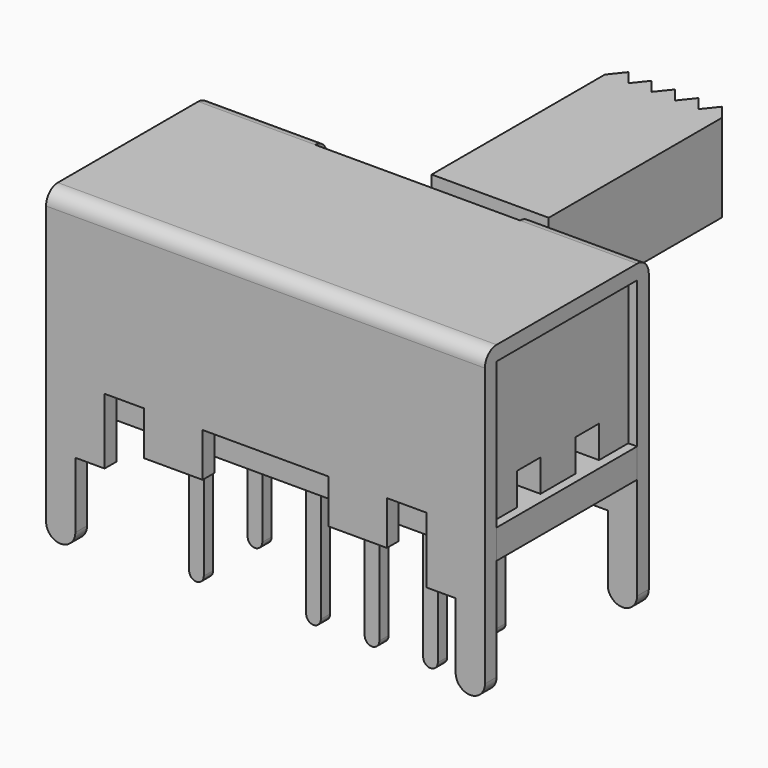
from build123d import *

# Parameters (mm, degrees)
BOX002_W         = 4
BOX002_H         = 10
BOX002_DEPTH     = 10
BOX001_W         = 7
BOX001_H         = 10
BOX001_DEPTH     = 3.5
BOX_W            = 20
BOX_H            = 6
BOX_DEPTH        = 10
EXTRUDE_DEPTH    = 7
FILLET_R         = 0.5
BOX003_W         = 15
BOX003_H         = 6
BOX003_DEPTH     = 1
EXTRUDE002_DEPTH = 0.4
EXTRUDE003_DEPTH = 0.4
EXTRUDE004_DEPTH = 0.4
EXTRUDE005_DEPTH = 0.4
EXTRUDE006_DEPTH = 0.4
EXTRUDE007_DEPTH = 0.4
EXTRUDE008_DEPTH = 0.4
EXTRUDE009_DEPTH = 0.4
BOX007_W         = 15
BOX007_H         = 1
BOX007_DEPTH     = 1.1
BOX006_W         = 15
BOX006_H         = 1
BOX006_DEPTH     = 1.1
BOX005_W         = 4
BOX005_H         = 1
BOX005_DEPTH     = 0.6
EXTRUDE001_DEPTH = 3
BOX004_W         = 10.4
BOX004_H         = 6
BOX004_DEPTH     = 4.9


with BuildPart() as cube002:
    # Box002 → Box002 (new body)
    with BuildSketch(Plane(origin=(-2, 0, -1), x_dir=(1, 0, 0), z_dir=(0, 0, 1))):
        with Locations((2, 5)):
            Rectangle(BOX002_W, BOX002_H)
    extrude(amount=BOX002_DEPTH)


with BuildPart() as fusion:
    # Box001 → Box001 (new body)
    with BuildSketch(Plane(origin=(-3.5, 3, 7), x_dir=(1, 0, 0), z_dir=(0, 0, 1))):
        with Locations((3.5, 5)):
            Rectangle(BOX001_W, BOX001_H)
    extrude(amount=BOX001_DEPTH)

    # Fusion: union Cube002
    add(cube002.part)


with BuildPart() as cube:
    # Box → Box (new body)
    with BuildSketch(Plane(origin=(-10, -3, 0), x_dir=(1, 0, 0), z_dir=(0, 0, 1))):
        with Locations((10, 3)):
            Rectangle(BOX_W, BOX_H)
    extrude(amount=BOX_DEPTH)


with BuildPart() as steelbody:
    # Sketch → Extrude (new body)
    with BuildSketch(Plane.XZ):
        with BuildLine():
            ThreePointArc((0, 0.5), (0.5, 0), (1, 0.5))
            Line((1, 0.5), (1, 2.75))
            Line((2, 2.75), (1, 2.75))
            Line((2, 2.75), (2, 5))
            Line((2, 5), (3.35, 5))
            Line((3.35, 5), (3.35, 3.5))
            Line((3.35, 3.5), (5.35, 3.5))
            Line((5.35, 3.5), (5.35, 5))
            Line((5.35, 5), (9.65, 5))
            Line((9.65, 3.5), (9.65, 5))
            Line((9.65, 3.5), (11.65, 3.5))
            Line((11.65, 5), (11.65, 3.5))
            Line((11.65, 5), (13, 5))
            Line((13, 5), (13, 2.75))
            Line((13, 2.75), (14, 2.75))
            Line((14, 2.75), (14, 0.5))
            ThreePointArc((14, 0.5), (14.5, 0), (15, 0.5))
            Line((15, 10.5), (15, 0.5))
            Line((0, 10.5), (15, 10.5))
            Line((0, 0.5), (0, 10.5))
        make_face()
    extrude(amount=EXTRUDE_DEPTH)


with BuildPart() as steelbody_1:
    # Extrude placement: moved
    add(steelbody.part.moved(Location((-7.5, 3.5, 0))))

    # Cut: cut Cube
    add(cube.part, mode=Mode.SUBTRACT)

    # Fillet
    fillet_edges = [steelbody_1.edges().sort_by_distance(p)[0] for p in [
        (0, 3.5, 10.5),
        (0, -3.5, 10.5),
    ]]
    fillet(fillet_edges, radius=FILLET_R)

    # Cut001: cut Fusion
    add(fusion.part, mode=Mode.SUBTRACT)


with BuildPart() as fiberglassbase:
    # Box003 → Box003 (new body)
    with BuildSketch(Plane(origin=(-7.5, -3, 4), x_dir=(1, 0, 0), z_dir=(0, 0, 1))):
        with Locations((7.5, 3)):
            Rectangle(BOX003_W, BOX003_H)
    extrude(amount=BOX003_DEPTH)


with BuildPart() as steelpin001:
    # Sketch002 → Extrude002 (new body)
    with BuildSketch(Plane.XZ):
        with BuildLine():
            ThreePointArc((-0.25, 0.25), (0, 0), (0.25, 0.25))
            Line((0.25, 0.25), (0.25, 4.25))
            Line((0.4, 4.8), (0.25, 4.25))
            Line((0.4, 4.8), (0.4, 7))
            Line((-0.4, 7), (0.4, 7))
            Line((-0.4, 4.8), (-0.4, 7))
            Line((-0.4, 4.8), (-0.25, 4.25))
            Line((-0.25, 0.25), (-0.25, 4.25))
        make_face()
    extrude(amount=EXTRUDE002_DEPTH)


with BuildPart() as steelpin001_1:
    # Extrude002 placement: moved
    add(steelpin001.part.moved(Location((0, 1.45, -1))))


with BuildPart() as steelpin002:
    # Sketch003 → Extrude003 (new body)
    with BuildSketch(Plane.XZ):
        with BuildLine():
            ThreePointArc((-0.25, 0.25), (0, 0), (0.25, 0.25))
            Line((0.25, 0.25), (0.25, 4.25))
            Line((0.4, 4.8), (0.25, 4.25))
            Line((0.4, 4.8), (0.4, 7))
            Line((-0.4, 7), (0.4, 7))
            Line((-0.4, 4.8), (-0.4, 7))
            Line((-0.4, 4.8), (-0.25, 4.25))
            Line((-0.25, 0.25), (-0.25, 4.25))
        make_face()
    extrude(amount=EXTRUDE003_DEPTH)


with BuildPart() as steelpin002_1:
    # Extrude003 placement: moved
    add(steelpin002.part.moved(Location((0, -1.05, -1))))


with BuildPart() as steelpin003:
    # Sketch004 → Extrude004 (new body)
    with BuildSketch(Plane.XZ):
        with BuildLine():
            ThreePointArc((-0.25, 0.25), (0, 0), (0.25, 0.25))
            Line((0.25, 0.25), (0.25, 4.25))
            Line((0.4, 4.8), (0.25, 4.25))
            Line((0.4, 4.8), (0.4, 7))
            Line((-0.4, 7), (0.4, 7))
            Line((-0.4, 4.8), (-0.4, 7))
            Line((-0.4, 4.8), (-0.25, 4.25))
            Line((-0.25, 0.25), (-0.25, 4.25))
        make_face()
    extrude(amount=EXTRUDE004_DEPTH)


with BuildPart() as steelpin003_1:
    # Extrude004 placement: moved
    add(steelpin003.part.moved(Location((2, 1.45, -1))))


with BuildPart() as steelpin004:
    # Sketch005 → Extrude005 (new body)
    with BuildSketch(Plane.XZ):
        with BuildLine():
            ThreePointArc((-0.25, 0.25), (0, 0), (0.25, 0.25))
            Line((0.25, 0.25), (0.25, 4.25))
            Line((0.4, 4.8), (0.25, 4.25))
            Line((0.4, 4.8), (0.4, 7))
            Line((-0.4, 7), (0.4, 7))
            Line((-0.4, 4.8), (-0.4, 7))
            Line((-0.4, 4.8), (-0.25, 4.25))
            Line((-0.25, 0.25), (-0.25, 4.25))
        make_face()
    extrude(amount=EXTRUDE005_DEPTH)


with BuildPart() as steelpin004_1:
    # Extrude005 placement: moved
    add(steelpin004.part.moved(Location((2, -1.05, -1))))


with BuildPart() as steelpin005:
    # Sketch006 → Extrude006 (new body)
    with BuildSketch(Plane.XZ):
        with BuildLine():
            ThreePointArc((-0.25, 0.25), (0, 0), (0.25, 0.25))
            Line((0.25, 0.25), (0.25, 4.25))
            Line((0.4, 4.8), (0.25, 4.25))
            Line((0.4, 4.8), (0.4, 7))
            Line((-0.4, 7), (0.4, 7))
            Line((-0.4, 4.8), (-0.4, 7))
            Line((-0.4, 4.8), (-0.25, 4.25))
            Line((-0.25, 0.25), (-0.25, 4.25))
        make_face()
    extrude(amount=EXTRUDE006_DEPTH)


with BuildPart() as steelpin005_1:
    # Extrude006 placement: moved
    add(steelpin005.part.moved(Location((4, 1.45, -1))))


with BuildPart() as steelpin006:
    # Sketch007 → Extrude007 (new body)
    with BuildSketch(Plane.XZ):
        with BuildLine():
            ThreePointArc((-0.25, 0.25), (0, 0), (0.25, 0.25))
            Line((0.25, 0.25), (0.25, 4.25))
            Line((0.4, 4.8), (0.25, 4.25))
            Line((0.4, 4.8), (0.4, 7))
            Line((-0.4, 7), (0.4, 7))
            Line((-0.4, 4.8), (-0.4, 7))
            Line((-0.4, 4.8), (-0.25, 4.25))
            Line((-0.25, 0.25), (-0.25, 4.25))
        make_face()
    extrude(amount=EXTRUDE007_DEPTH)


with BuildPart() as steelpin006_1:
    # Extrude007 placement: moved
    add(steelpin006.part.moved(Location((4, -1.05, -1))))


with BuildPart() as steelpin007:
    # Sketch008 → Extrude008 (new body)
    with BuildSketch(Plane.XZ):
        with BuildLine():
            ThreePointArc((-0.25, 0.25), (0, 0), (0.25, 0.25))
            Line((0.25, 0.25), (0.25, 4.25))
            Line((0.4, 4.8), (0.25, 4.25))
            Line((0.4, 4.8), (0.4, 7))
            Line((-0.4, 7), (0.4, 7))
            Line((-0.4, 4.8), (-0.4, 7))
            Line((-0.4, 4.8), (-0.25, 4.25))
            Line((-0.25, 0.25), (-0.25, 4.25))
        make_face()
    extrude(amount=EXTRUDE008_DEPTH)


with BuildPart() as steelpin007_1:
    # Extrude008 placement: moved
    add(steelpin007.part.moved(Location((-4, 1.45, -1))))


with BuildPart() as steelpin008:
    # Sketch009 → Extrude009 (new body)
    with BuildSketch(Plane.XZ):
        with BuildLine():
            ThreePointArc((-0.25, 0.25), (0, 0), (0.25, 0.25))
            Line((0.25, 0.25), (0.25, 4.25))
            Line((0.4, 4.8), (0.25, 4.25))
            Line((0.4, 4.8), (0.4, 7))
            Line((-0.4, 7), (0.4, 7))
            Line((-0.4, 4.8), (-0.4, 7))
            Line((-0.4, 4.8), (-0.25, 4.25))
            Line((-0.25, 0.25), (-0.25, 4.25))
        make_face()
    extrude(amount=EXTRUDE009_DEPTH)


with BuildPart() as steelpin008_1:
    # Extrude009 placement: moved
    add(steelpin008.part.moved(Location((-4, -1.05, -1))))


with BuildPart() as cube006:
    # Box007 → Box007 (new body)
    with BuildSketch(Plane(origin=(-7.5, 0.75, 5), x_dir=(1, 0, 0), z_dir=(0, 0, 1))):
        with Locations((7.5, 0.5)):
            Rectangle(BOX007_W, BOX007_H)
    extrude(amount=BOX007_DEPTH)


with BuildPart() as fusion002:
    # Box006 → Box006 (new body)
    with BuildSketch(Plane(origin=(-7.5, -1.75, 5), x_dir=(1, 0, 0), z_dir=(0, 0, 1))):
        with Locations((7.5, 0.5)):
            Rectangle(BOX006_W, BOX006_H)
    extrude(amount=BOX006_DEPTH)

    # Fusion002: union Cube006
    add(cube006.part)


with BuildPart() as cube004:
    # Box005 → Box005 (new body)
    with BuildSketch(Plane(origin=(-2, 2.6, 2.4), x_dir=(1, 0, 0), z_dir=(0, 0, 1))):
        with Locations((2, 0.5)):
            Rectangle(BOX005_W, BOX005_H)
    extrude(amount=BOX005_DEPTH)


with BuildPart() as cut002:
    # Sketch001 → Extrude001 (new body)
    with BuildSketch(Plane.XY):
        Polygon((-2, 11), (-2, 3.6), (-1.5, 3.6), (-1.5, 3), (1.5, 3), (1.5, 3.6), (2, 3.6), (2, 11), (1.6, 11.5), (1.2, 11), (0.8, 11.5), (0.4, 11), (0, 11.5), (-0.4, 11), (-0.8, 11.5), (-1.2, 11), (-1.6, 11.5), align=None)
    extrude(amount=EXTRUDE001_DEPTH)

    # Cut002: cut Cube004
    add(cube004.part, mode=Mode.SUBTRACT)


with BuildPart() as cut002_1:
    # Cut002 placement: moved
    add(cut002.part.moved(Location((0, 0, 7.5))))


with BuildPart() as plasticlever001:
    # Box004 → Box004 (new body)
    with BuildSketch(Plane(origin=(-5.2, -3, 5), x_dir=(1, 0, 0), z_dir=(0, 0, 1))):
        with Locations((5.2, 3)):
            Rectangle(BOX004_W, BOX004_H)
    extrude(amount=BOX004_DEPTH)

    # Fusion001: union Cut002
    add(cut002_1.part)


with BuildPart() as plasticlever001_1:
    # Fusion001 placement: moved
    add(plasticlever001.part.moved(Location((2, 0, 0))))

    # Cut003: cut Fusion002
    add(fusion002.part, mode=Mode.SUBTRACT)


solid = Compound([steelbody_1.part, fiberglassbase.part, steelpin001_1.part, steelpin002_1.part, steelpin003_1.part, steelpin004_1.part, steelpin005_1.part, steelpin006_1.part, steelpin007_1.part, steelpin008_1.part, plasticlever001_1.part])
